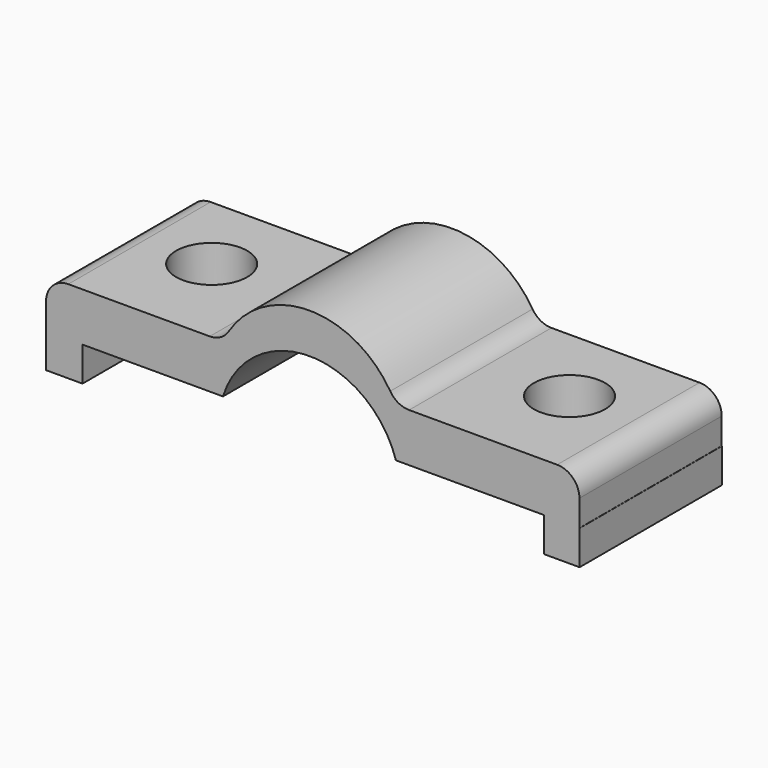
from build123d import *

# Parameters (mm, degrees)
F1_DEPTH = 50.8
F3_D     = 20.32


with BuildPart() as f1:
    # F0 (on Front) → F1 (new body)
    with BuildSketch(Plane.XZ):
        with BuildLine():
            ThreePointArc((-25.6362788903, 0), (-0.9451183533, 18.1852056191), (23.7460421838, 0))
            Line((23.7460421838, 0), (66.0344064236, 0))
            Line((66.0344064236, 0), (66.0344064236, -9.8256887868))
            Line((66.0344064236, -9.8256887868), (76.2, -9.8256887868))
            Line((76.2, -9.8256887868), (76.2, 0))
            Line((76.2, 0), (76.149083674, 0))
            Line((76.149083674, 0), (76.149083674, 7.5215598732))
            ThreePointArc((76.149083674, 7.5215598732), (74.2892117345, 12.0116879338), (69.799083674, 13.8715598732))
            Line((69.799083674, 13.8715598732), (27.5173505631, 13.8715598732))
            ThreePointArc((27.5173505631, 13.8715598732), (24.4377427448, 14.6683161648), (22.1309528492, 16.8586415471))
            ThreePointArc((22.1309528492, 16.8586415471), (-0.9451183533, 29.6557116959), (-24.0211895558, 16.8586415471))
            ThreePointArc((-24.0211895558, 16.8586415471), (-26.3279794513, 14.6683161648), (-29.4075872696, 13.8715598732))
            Line((-29.4075872696, 13.8715598732), (-69.799083674, 13.8715598732))
            ThreePointArc((-69.799083674, 13.8715598732), (-74.2892117345, 12.0116879338), (-76.149083674, 7.5215598732))
            Line((-76.149083674, 7.5215598732), (-76.149083674, 0))
            Line((-76.149083674, 0), (-76.149083674, -9.8256887868))
            Line((-76.149083674, -9.8256887868), (-65.7454133034, -9.8256887868))
            Line((-65.7454133034, -9.8256887868), (-65.7454133034, 0))
            Line((-65.7454133034, 0), (-25.6362788903, 0))
        make_face()
    extrude(amount=F1_DEPTH)

    # F3 (through all)
    with Locations(Plane(origin=(0, 0, 0), x_dir=(1, 0, 0), z_dir=(0, 0, -1))):
        with Locations((-50.9421490133, 23.1955610216), (51.2357614934, 23.1955610216)):
            Hole(F3_D / 2)


solid = f1.part
